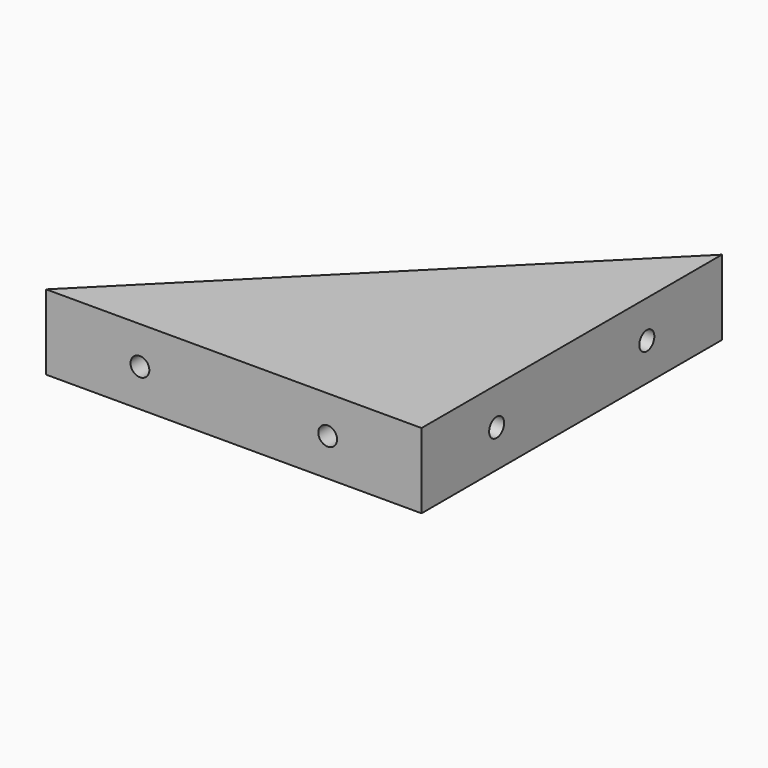
from build123d import *

# Parameters (mm, degrees)
F1_DEPTH = 20
F3_D     = 5
F3_DEPTH = 10
F3_TIP   = 1.5021515476
F5_D     = 5
F5_DEPTH = 10
F5_TIP   = 1.5021515476


with BuildPart() as f1:
    # F0 (on Top) → F1 (new body)
    with BuildSketch(Plane.XY):
        Polygon((-100, 0), (0, 0), (0, 100), align=None)
    extrude(amount=F1_DEPTH)

    # F3
    with Locations(Plane.YZ):
        with Locations((75, 10), (25, 10)):
            Hole(F3_D / 2, depth=F3_DEPTH)
            with Locations((0, 0, -(F3_DEPTH + F3_TIP / 2))):  # 118° drill point
                Cone(0, F3_D / 2, F3_TIP, mode=Mode.SUBTRACT)

    # F5
    with Locations(Plane.XZ):
        with Locations((-25, 10), (-75, 10)):
            Hole(F5_D / 2, depth=F5_DEPTH)
            with Locations((0, 0, -(F5_DEPTH + F5_TIP / 2))):  # 118° drill point
                Cone(0, F5_D / 2, F5_TIP, mode=Mode.SUBTRACT)


solid = f1.part
